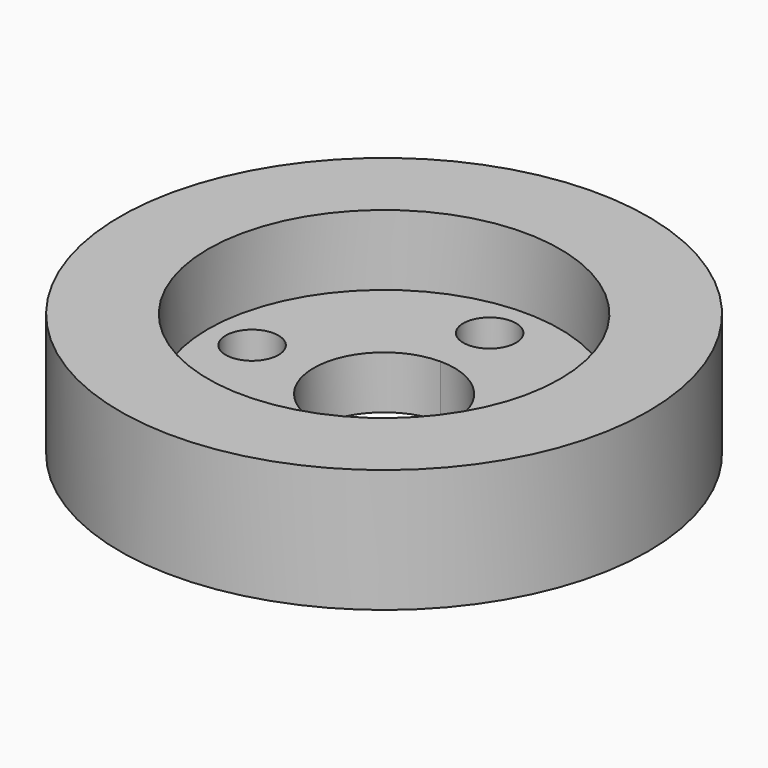
from build123d import *

# Parameters (mm, degrees)
F0_R     = 15
F0_R_2   = 1.5
F1_DEPTH = 3
F2_R     = 15
F2_R_2   = 10
F3_DEPTH = 4


with BuildPart() as f1:
    # F0 (on Top) → F1 (new body)
    with BuildSketch(Plane.XY):
        Circle(F0_R)
        with Locations((0, -7.5)):
            Circle(F0_R_2, mode=Mode.SUBTRACT)
        with Locations((-7.5, 0)):
            Circle(F0_R_2, mode=Mode.SUBTRACT)
        with BuildLine():
            ThreePointArc((4, 0), (-2.8284271247, -2.8284271247), (0, 4))
            ThreePointArc((0, 4), (2.8284271247, 2.8284271247), (4, 0))
        make_face(mode=Mode.SUBTRACT)
        with Locations((7.5, 0)):
            Circle(F0_R_2, mode=Mode.SUBTRACT)
        with BuildLine():
            ThreePointArc((1.5, 7.5), (1.0606601718, 6.4393398282), (0, 6))
            ThreePointArc((0, 6), (-1.0606601718, 8.5606601718), (1.5, 7.5))
        make_face(mode=Mode.SUBTRACT)
    extrude(amount=F1_DEPTH)

    # F2 (on face) → F3 (join)
    with BuildSketch(Plane.XY.offset(3)):
        Circle(F2_R)
        Circle(F2_R_2, mode=Mode.SUBTRACT)
    extrude(amount=F3_DEPTH)


solid = f1.part
